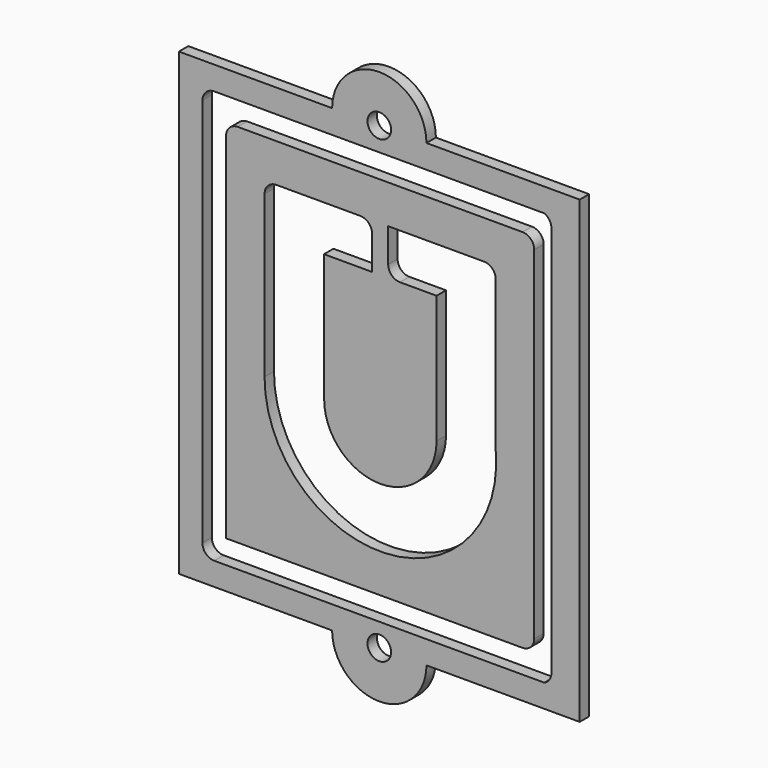
from build123d import *

# Parameters (mm, degrees)
F1_DEPTH = 6.35
F0_R     = 6.35
F2_DEPTH = 6.35


with BuildPart() as f1:
    # F0 (on Front) → F1 (new body)
    with BuildSketch(Plane.XZ):
        with BuildLine():
            ThreePointArc((123.742156, 123.18295), (121.882284, 127.673078), (117.392156, 129.53295))
            Line((117.392156, 129.53295), (-35.917846, 129.53295))
            ThreePointArc((-35.917846, 129.53295), (-40.407974, 127.673078), (-42.267846, 123.18295))
            Line((-42.267846, 123.18295), (-42.267846, -67.607573))
            Line((-42.267846, -67.607573), (117.392156, -67.607573))
            ThreePointArc((117.392156, -67.607573), (121.882284, -65.747701), (123.742156, -61.257573))
            Line((123.742156, -61.257573), (123.742156, 123.18295))
        make_face()
        with BuildLine():
            Line((45.076356, 108.781316), (96.65695, 108.781316))
            ThreePointArc((96.65695, 108.781316), (101.147078, 106.921444), (103.00695, 102.431316))
            Line((103.00695, 102.431316), (103.00695, 20.828142))
            ThreePointArc((103.00695, 20.828142), (43.426838, -46.805248), (-21.507319, 15.705716))
            Line((-21.507319, 15.705716), (-21.503158, 102.43162))
            ThreePointArc((-21.503158, 102.43162), (-19.643179, 106.921552), (-15.153159, 108.781316))
            Line((-15.153159, 108.781316), (30.047954, 108.781316))
            ThreePointArc((30.047954, 108.781316), (34.538082, 106.921444), (36.397954, 102.431316))
            Line((36.397954, 102.431316), (36.397954, 84.273581))
            Line((36.397954, 84.273581), (10.501273, 84.273581))
            Line((10.501273, 84.273581), (10.588526, 15.626645))
            ThreePointArc((10.588526, 15.626645), (40.749251, -14.761817), (71.137713, 15.398908))
            Line((71.137713, 15.398908), (71.137713, 84.273581))
            Line((71.137713, 84.273581), (51.426356, 84.273581))
            ThreePointArc((51.426356, 84.273581), (46.936228, 86.133453), (45.076356, 90.623581))
            Line((45.076356, 90.623581), (45.076356, 108.781316))
        make_face(mode=Mode.SUBTRACT)
    extrude(amount=F1_DEPTH)


with BuildPart() as f2:
    # F0 (on Front) → F2 (new body)
    with BuildSketch(Plane.XZ):
        with BuildLine():
            Line((-67.667846, 154.93295), (-67.667846, 129.53295))
            Line((-67.667846, 129.53295), (-67.667846, -92.71705))
            Line((-67.667846, -92.71705), (14.882154, -92.71705))
            ThreePointArc((14.882154, -92.71705), (40.282154, -118.11705), (65.682154, -92.71705))
            Line((65.682154, -92.71705), (148.232154, -92.71705))
            Line((148.232154, -92.71705), (148.232154, 154.93295))
            Line((148.232154, 154.93295), (65.682154, 154.93295))
            ThreePointArc((65.682154, 154.93295), (40.282154, 180.33295), (14.882154, 154.93295))
            Line((14.882154, 154.93295), (-67.667846, 154.93295))
        make_face()
        with BuildLine():
            Line((-54.967846, -73.957573), (-54.967846, 135.88295))
            ThreePointArc((-54.967846, 135.88295), (-53.107974, 140.373078), (-48.617846, 142.23295))
            Line((-48.617846, 142.23295), (129.182154, 142.23295))
            ThreePointArc((129.182154, 142.23295), (131.954945, 139.891117), (132.992154, 136.413079))
            Line((132.992154, 136.413079), (132.992154, -74.487702))
            ThreePointArc((132.992154, -74.487702), (131.954945, -77.96574), (129.182154, -80.307573))
            Line((129.182154, -80.307573), (-48.617846, -80.307573))
            ThreePointArc((-48.617846, -80.307573), (-53.107974, -78.447701), (-54.967846, -73.957573))
        make_face(mode=Mode.SUBTRACT)
        with Locations((40.282154, -92.71705)):
            Circle(F0_R, mode=Mode.SUBTRACT)
        with Locations((40.282154, 154.93295)):
            Circle(F0_R, mode=Mode.SUBTRACT)
    extrude(amount=F2_DEPTH)


solid = Compound([f1.part, f2.part])
